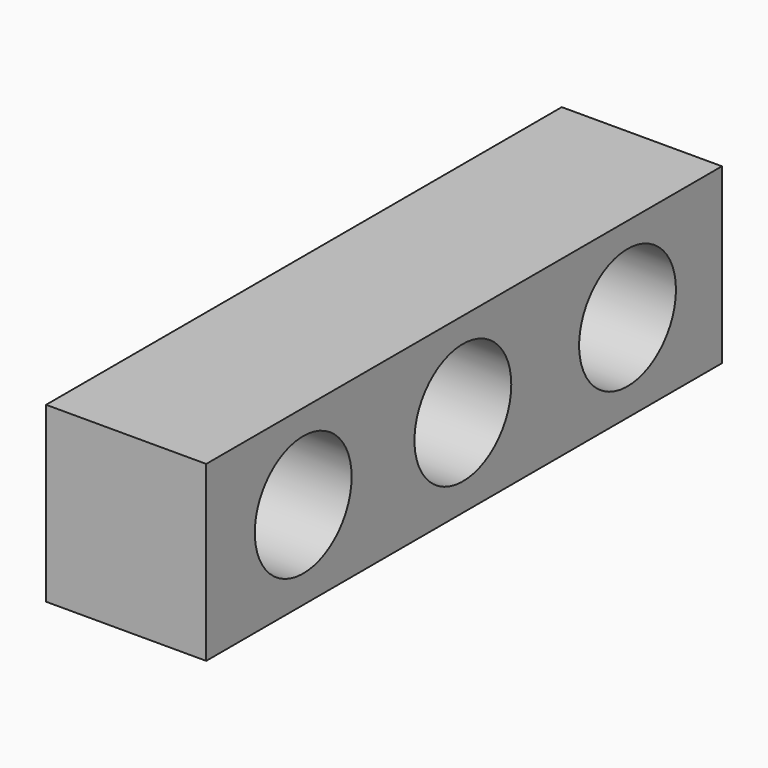
from build123d import *

# Parameters (mm, degrees)
F0_W     = 31.6
F0_H     = 8.5
F0_R     = 2.96637
F1_DEPTH = 7.85
F2_W     = 4.95
F2_H     = 28.7
F2_R     = 1.525
F3_DEPTH = 1


with BuildPart() as f1:
    # F0 (on Right) → F1 (new body)
    with BuildSketch(Plane.YZ):
        with Locations((-10.016578, -6.232997)):
            Rectangle(F0_W, F0_H)
        with Locations((-19.874388, -6.163024)):
            Circle(F0_R, mode=Mode.SUBTRACT)
        with Locations((-10.09056, -6.163024)):
            Circle(F0_R, mode=Mode.SUBTRACT)
        with Locations((0, -6.163024)):
            Circle(F0_R, mode=Mode.SUBTRACT)
    extrude(amount=F1_DEPTH)

    # F2 (on face) → F3 (cut)
    with BuildSketch(Plane(origin=(0, 0, -10.482997), x_dir=(1, 0, 0), z_dir=(0, 0, -1))):
        with Locations((3.925, 10.016578)):
            Rectangle(F2_W, F2_H)
        with Locations((4.125, 2.191578)):
            Circle(F2_R, mode=Mode.SUBTRACT)
        with Locations((4.125, 9.36722)):
            Circle(F2_R, mode=Mode.SUBTRACT)
        with Locations((4.125, 17.841578)):
            Circle(F2_R, mode=Mode.SUBTRACT)
    extrude(amount=-F3_DEPTH, mode=Mode.SUBTRACT)


solid = f1.part
